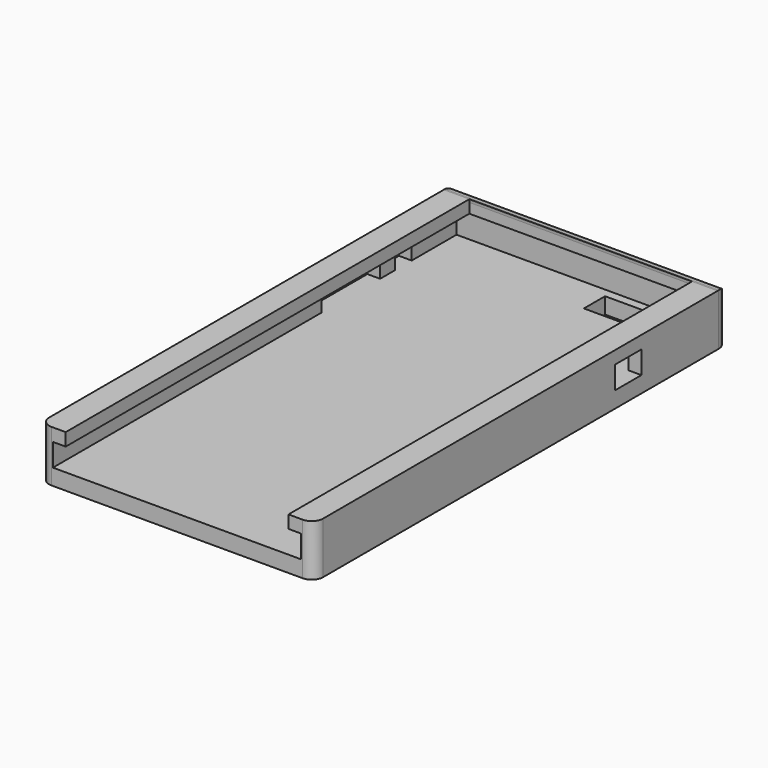
from build123d import *

# Parameters (mm, degrees)
F1_DEPTH  = 158.07
F3_W      = 85.8
F3_H      = 16.162527
F4_DEPTH  = 4
F5_R      = 3.55
F6_W      = 19.06
F6_H      = 8.3
F7_DEPTH  = 10
F8_W      = 6.5
F8_H      = 7.1
F8_W_2    = 23
F9_DEPTH  = 4
F10_W     = 10.3
F10_H     = 7.1
F11_DEPTH = 4


with BuildPart() as f1:
    # F0 (on Front) → F1 (new body)
    with BuildSketch(Plane.XZ):
        Polygon((-41.478407, 4), (-41.478407, -12.162527), (44.321593, -12.162527), (44.321593, 4), (36.321593, 4), (36.321593, 0), (40.321593, 0), (40.321593, -7.1), (-37.478407, -7.1), (-37.478407, 0), (-33.478407, 0), (-33.478407, 4), align=None)
    extrude(amount=F1_DEPTH)

    # F3 (on Front) → F4 (join)
    with BuildSketch(Plane.XZ):
        with Locations((1.421593, -4.081263)):
            Rectangle(F3_W, F3_H)
    extrude(amount=-F4_DEPTH)

    # F5
    f5_edges = [f1.edges().sort_by_distance(p)[0] for p in [
        (-41.478407, 4, -4.081264),
        (44.321593, 4, -4.081264),
        (1.421593, 4, 4),
        (44.321593, -158.07, -4.081264),
        (-41.478407, -158.07, -4.081264),
    ]]
    fillet(f5_edges, radius=F5_R)

    # F6 (on face) → F7 (cut)
    with BuildSketch(Plane.XY.offset(-7.1)):
        with Locations((20.791593, -6.9)):
            Rectangle(F6_W, F6_H)
    extrude(amount=-F7_DEPTH, mode=Mode.SUBTRACT)

    # F8 (on face) → F9 (cut)
    with BuildSketch(Plane(origin=(-41.478407, 0, 0), x_dir=(0, -1, 0), z_dir=(-1, 0, 0))):
        with Locations((20.8, -3.55)):
            Rectangle(F8_W, F8_H)
        with Locations((41.43, -3.55)):
            Rectangle(F8_W_2, F8_H)
    extrude(amount=-F9_DEPTH, mode=Mode.SUBTRACT)

    # F10 (on face) → F11 (cut)
    with BuildSketch(Plane.YZ.offset(44.321593)):
        with Locations((-35, -3.55)):
            Rectangle(F10_W, F10_H)
    extrude(amount=-F11_DEPTH, mode=Mode.SUBTRACT)


solid = f1.part
